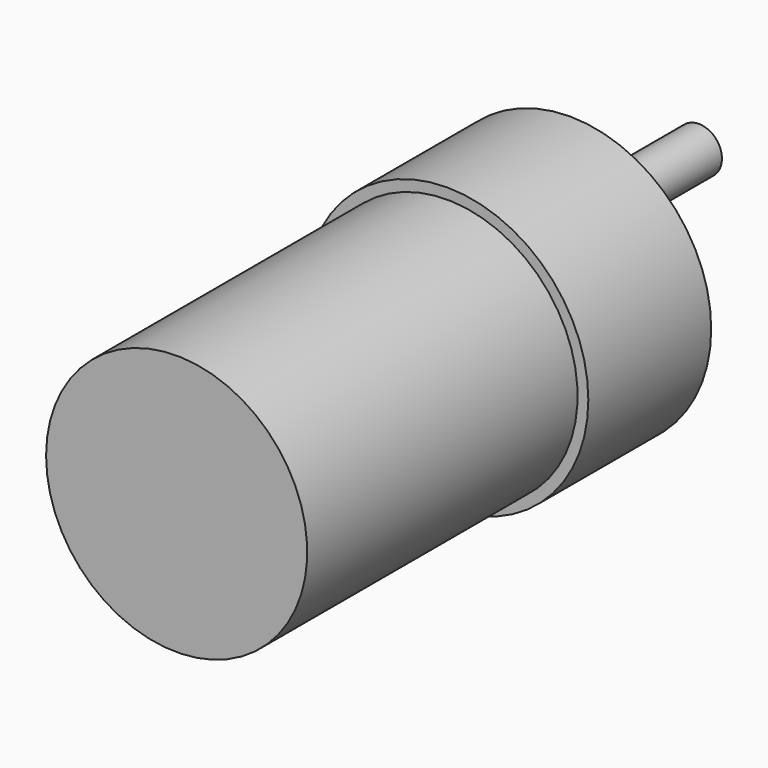
from build123d import *

# Parameters (mm, degrees)
CYLINDER019_R             = 17
CYLINDER019_DEPTH         = 14
CYLINDER020_R             = 5.5
CYLINDER020_DEPTH         = 6
CYLINDER018_R             = 17
CYLINDER018_DEPTH         = 30
BOX003_W                  = 11
BOX003_H                  = 10
BOX003_DEPTH              = 21
CYLINDER021_R             = 3
CYLINDER021_DEPTH         = 15
CYLINDER017_R             = 18.4
CYLINDER017_DEPTH         = 20
FUSION003_ROLL_ANGLE      = 90
FUSION003_PLACEMENT_ANGLE = 180


with BuildPart() as encoder002:
    # Cylinder019 → Cylinder019 (new body)
    with BuildSketch(Plane(origin=(0, -298, 0), x_dir=(1, 0, 0), z_dir=(0, 0, 1))):
        Circle(CYLINDER019_R)
    extrude(amount=CYLINDER019_DEPTH)


with BuildPart() as cilindro004:
    # Cylinder020 → Cylinder020 (new body)
    with BuildSketch(Plane(origin=(0, -292, 64), x_dir=(1, 0, 0), z_dir=(0, 0, 1))):
        Circle(CYLINDER020_R)
    extrude(amount=CYLINDER020_DEPTH)


with BuildPart() as motor002:
    # Cylinder018 → Cylinder018 (new body)
    with BuildSketch(Plane(origin=(0, -298, 14), x_dir=(1, 0, 0), z_dir=(0, 0, 1))):
        Circle(CYLINDER018_R)
    extrude(amount=CYLINDER018_DEPTH)


with BuildPart() as cubo002:
    # Box003 → Box003 (new body)
    with BuildSketch(Plane(origin=(2, -191, -2), x_dir=(1, 0, 0), z_dir=(0, 0, 1))):
        with Locations((5.5, 5)):
            Rectangle(BOX003_W, BOX003_H)
    extrude(amount=BOX003_DEPTH)


with BuildPart() as cut002:
    # Cylinder021 → Cylinder021 (new body)
    with BuildSketch(Plane(origin=(0, -186, 0), x_dir=(1, 0, 0), z_dir=(0, 0, 1))):
        Circle(CYLINDER021_R)
    extrude(amount=CYLINDER021_DEPTH)

    # Cut002: cut Cubo002
    add(cubo002.part, mode=Mode.SUBTRACT)


with BuildPart() as cut002_1:
    # Cut002 placement: moved
    add(cut002.part.moved(Location((0, -106, 70))))


with BuildPart() as obj1:
    # Cylinder017 → Cylinder017 (new body)
    with BuildSketch(Plane(origin=(0, -298, 44), x_dir=(1, 0, 0), z_dir=(0, 0, 1))):
        Circle(CYLINDER017_R)
    extrude(amount=CYLINDER017_DEPTH)

    # Fusion003: union Encoder002, Cilindro004, Motor002, Cut002
    add(encoder002.part)
    add(cilindro004.part)
    add(motor002.part)
    add(cut002_1.part)


with BuildPart() as obj1_1:
    # Fusion003 roll: moved
    add(obj1.part.rotate(Axis((0, 0, 0), (1, 0, 0)), FUSION003_ROLL_ANGLE))


with BuildPart() as obj1_2:
    # Fusion003 placement: moved
    add(obj1_1.part.moved(Location((43, 75, 283))).rotate(Axis((43, 75, 283), (0, 0, 1)), FUSION003_PLACEMENT_ANGLE))


solid = obj1_2.part
